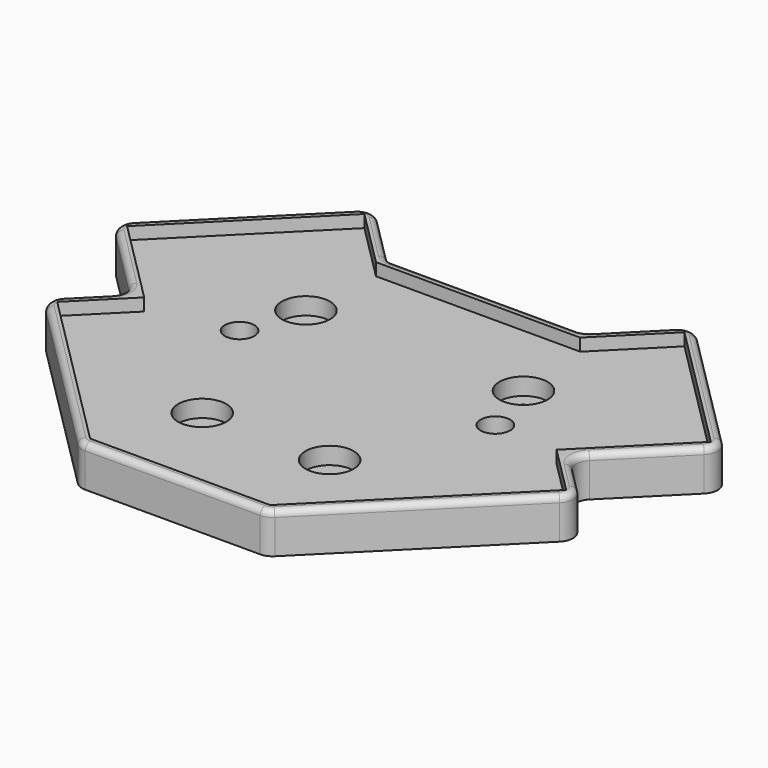
from build123d import *

# Parameters (mm, degrees)
F2_R     = 7.75
F2_R_2   = 4.75
F3_DEPTH = 9
F4_DEPTH = 13
F0_R     = 7.75
F0_R_2   = 3
F5_DEPTH = 3.5
F6_R     = 5
F7_R     = 2


with BuildPart() as f3:
    # F2 (on Top) → F3 (new body)
    with BuildSketch(Plane.XY):
        Polygon((32.864719, 52.628166), (0, 52.628166), (-32.864719, 52.628166), (-51.497475, 71.260922), (-93.923882, 28.834515), (-66.346717, 1.25735), (-81.903066, -14.298999), (-28.980231, -67.221834), (0, -67.221834), (28.980231, -67.221834), (81.903066, -14.298999), (66.346717, 1.25735), (93.923882, 28.834515), (51.497475, 71.260922), align=None)
        with Locations((-20.5, -32.721834)):
            Circle(F2_R, mode=Mode.SUBTRACT)
        with Locations((20.5, -32.721834)):
            Circle(F2_R, mode=Mode.SUBTRACT)
        with Locations((-41.15, 8.128166)):
            Circle(F2_R_2, mode=Mode.SUBTRACT)
        with Locations((-35, 27.128166)):
            Circle(F2_R, mode=Mode.SUBTRACT)
        with Locations((41.15, 8.128166)):
            Circle(F2_R_2, mode=Mode.SUBTRACT)
        with Locations((35, 27.128166)):
            Circle(F2_R, mode=Mode.SUBTRACT)
    extrude(amount=F3_DEPTH)

    # F2 (on Top) → F4 (join)
    with BuildSketch(Plane.XY):
        Polygon((0, 55.628166), (-31.622078, 55.628166), (-51.497475, 75.503562), (-98.166522, 28.834515), (-70.589358, 1.25735), (-86.145707, -14.298999), (-30.222871, -70.221834), (0, -70.221834), (30.222871, -70.221834), (86.145707, -14.298999), (70.589358, 1.25735), (98.166522, 28.834515), (51.497475, 75.503562), (31.622078, 55.628166), align=None)
        Polygon((-32.864719, 52.628166), (0, 52.628166), (32.864719, 52.628166), (51.497475, 71.260922), (93.923882, 28.834515), (66.346717, 1.25735), (81.903066, -14.298999), (28.980231, -67.221834), (0, -67.221834), (-28.980231, -67.221834), (-81.903066, -14.298999), (-66.346717, 1.25735), (-93.923882, 28.834515), (-51.497475, 71.260922), align=None, mode=Mode.SUBTRACT)
    extrude(amount=F4_DEPTH)

    # F0 (on Top) → F5 (join)
    with BuildSketch(Plane.XY):
        with Locations((-35, 27.128166)):
            Circle(F0_R)
        with Locations((-35, 27.128166)):
            Circle(F0_R_2, mode=Mode.SUBTRACT)
        with Locations((35, 27.128166)):
            Circle(F0_R)
        with Locations((35, 27.128166)):
            Circle(F0_R_2, mode=Mode.SUBTRACT)
        with Locations((20.5, -32.721834)):
            Circle(F0_R)
        with Locations((20.5, -32.721834)):
            Circle(F0_R_2, mode=Mode.SUBTRACT)
        with Locations((-20.5, -32.721834)):
            Circle(F0_R)
        with Locations((-20.5, -32.721834)):
            Circle(F0_R_2, mode=Mode.SUBTRACT)
    extrude(amount=F5_DEPTH)

    # F6
    f6_edges = [f3.edges().sort_by_distance(p)[0] for p in [
        (-51.497475, 75.503562, 6.5),
        (-31.622078, 55.628166, 6.5),
        (51.497475, 75.503562, 6.5),
        (98.166522, 28.834515, 6.5),
        (70.589358, 1.25735, 6.5),
        (86.145707, -14.298999, 6.5),
        (30.222871, -70.221834, 6.5),
        (-30.222871, -70.221834, 6.5),
        (-86.145707, -14.298999, 6.5),
        (-70.589358, 1.25735, 6.5),
        (-98.166522, 28.834515, 6.5),
        (31.622078, 55.628166, 6.5),
    ]]
    fillet(f6_edges, radius=F6_R)

    # F7
    f7_edges = [f3.edges().sort_by_distance(p)[0] for p in [
        (-74.831998, 52.169039, 13),
        (-40.524242, 64.53033, 13),
        (0, 55.628166, 13),
        (40.524242, 64.53033, 13),
        (74.831998, 52.169039, 13),
        (84.37794, 15.045933, 13),
        (78.367532, -6.520824, 13),
        (57.148755, -43.295951, 13),
        (0, -70.221834, 13),
        (-57.148755, -43.295951, 13),
        (-78.367532, -6.520824, 13),
        (-84.37794, 15.045933, 13),
    ]]
    fillet(f7_edges, radius=F7_R)


solid = f3.part
